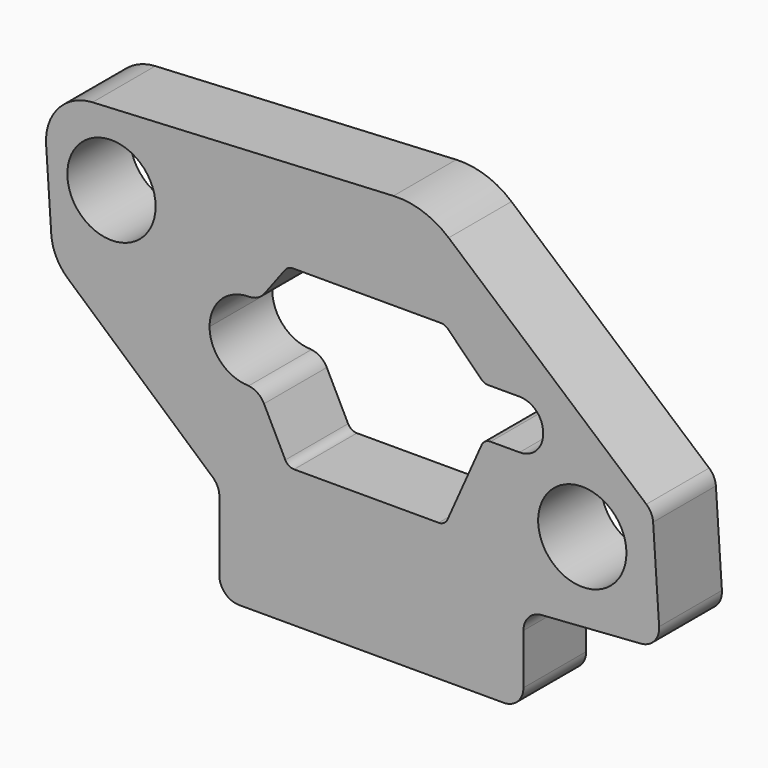
from build123d import *

# Parameters (mm, degrees)
F0_R     = 3.571875
F1_DEPTH = 6.35
F3_DEPTH = 6.351


with BuildPart() as f1:
    # F0 (on Front) → F1 (new body)
    with BuildSketch(Plane.XZ):
        with BuildLine():
            Line((-23.01875, 0), (-1.5875, 0))
            ThreePointArc((-1.5875, 0), (-0.464968, 0.464968), (0, 1.5875))
            Line((0, 1.5875), (0, 5.665868))
            ThreePointArc((0, 5.665868), (0.425569, 6.747567), (1.474107, 7.249313))
            Line((1.474107, 7.249313), (9.508444, 7.824664))
            ThreePointArc((9.508444, 7.824664), (10.592335, 8.365676), (10.979035, 9.513708))
            Line((10.979035, 9.513708), (10.493333, 16.799234))
            ThreePointArc((10.493333, 16.799234), (10.329628, 17.402835), (9.945492, 17.896367))
            Line((9.945492, 17.896367), (-6.049899, 31.676258))
            ThreePointArc((-6.049899, 31.676258), (-8.137329, 32.872882), (-10.520112, 33.206975))
            Line((-10.520112, 33.206975), (-34.869258, 31.956656))
            ThreePointArc((-34.869258, 31.956656), (-37.632489, 30.629287), (-38.625692, 27.729131))
            Line((-38.625692, 27.729131), (-38.20871, 21.474402))
            ThreePointArc((-38.20871, 21.474402), (-37.809891, 19.986471), (-36.874561, 18.76248))
            Line((-36.874561, 18.76248), (-25.143426, 8.411479))
            ThreePointArc((-25.143426, 8.411479), (-24.746762, 7.874091), (-24.60625, 7.221111))
            Line((-24.60625, 7.221111), (-24.60625, 1.5875))
            ThreePointArc((-24.60625, 1.5875), (-24.141282, 0.464968), (-23.01875, 0))
        make_face()
        with Locations((4.7625, 13.890625)):
            Circle(F0_R, mode=Mode.SUBTRACT)
        with Locations((-33.3375, 26.19375)):
            Circle(F0_R, mode=Mode.SUBTRACT)
    extrude(amount=F1_DEPTH)

    # F2 (on face) → F3 (cut, through all)
    with BuildSketch(Plane.XZ.offset(6.35)):
        with BuildLine():
            ThreePointArc((-19.269387, 11.551274), (-18.976735, 11.231046), (-18.559436, 11.1125))
            Line((-18.559436, 11.1125), (-6.865837, 11.1125))
            ThreePointArc((-6.865837, 11.1125), (-6.433312, 11.240697), (-6.140499, 11.583878))
            Line((-6.140499, 11.583878), (-3.384501, 17.784872))
            ThreePointArc((-3.384501, 17.784872), (-3.091688, 18.128053), (-2.659163, 18.25625))
            Line((-2.659163, 18.25625), (-0.3175, 18.25625))
            ThreePointArc((-0.3175, 18.25625), (1.029538, 18.814212), (1.5875, 20.16125))
            Line((1.5875, 20.16125), (1.5875, 20.32))
            ThreePointArc((1.5875, 20.32), (1.029538, 21.667038), (-0.3175, 22.225))
            Line((-0.3175, 22.225), (-2.846218, 22.225))
            ThreePointArc((-2.846218, 22.225), (-3.149973, 22.285421), (-3.407484, 22.457484))
            Line((-3.407484, 22.457484), (-6.117516, 25.167516))
            ThreePointArc((-6.117516, 25.167516), (-6.375027, 25.339579), (-6.678782, 25.4))
            Line((-6.678782, 25.4), (-18.653125, 25.4))
            ThreePointArc((-18.653125, 25.4), (-19.008101, 25.316202), (-19.288125, 25.0825))
            Line((-19.288125, 25.0825), (-20.955, 22.86))
            ThreePointArc((-20.955, 22.86), (-21.515048, 22.392597), (-22.225, 22.225))
            ThreePointArc((-22.225, 22.225), (-24.470064, 21.295064), (-25.4, 19.05))
            ThreePointArc((-25.4, 19.05), (-24.470064, 16.804936), (-22.225, 15.875))
            Line((-22.225, 15.875), (-22.412379, 15.875))
            ThreePointArc((-22.412379, 15.875), (-21.577781, 15.637908), (-20.992476, 14.997452))
            Line((-20.992476, 14.997452), (-19.269387, 11.551274))
        make_face()
    extrude(amount=-F3_DEPTH, mode=Mode.SUBTRACT)


solid = f1.part
